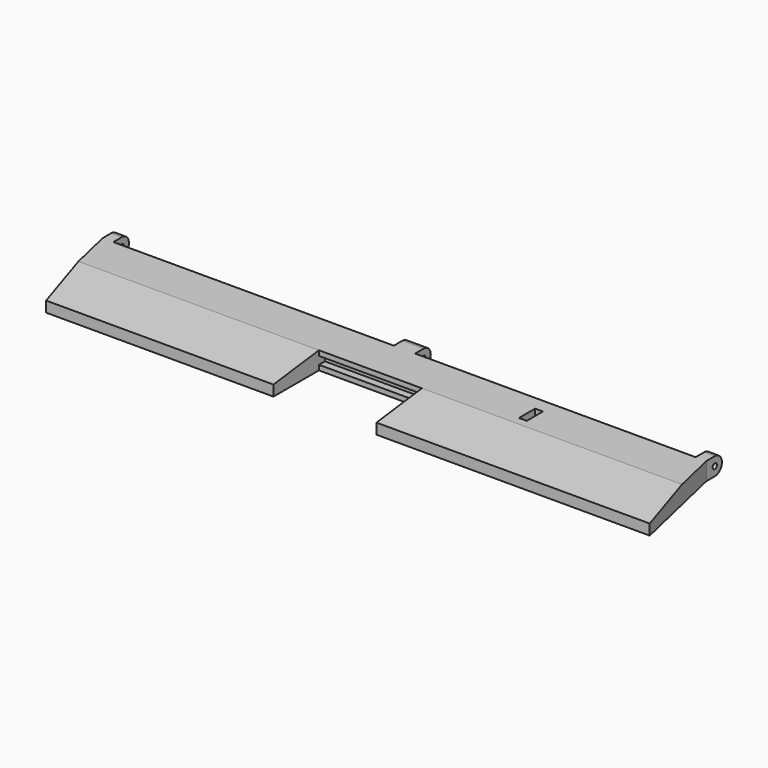
from build123d import *

# Parameters (mm, degrees)
PAD_DEPTH       = 5
SKETCH001_W     = 29
SKETCH001_H     = 16
POCKET_DEPTH    = 5
SKETCH002_W     = 29
SKETCH002_H     = 2.2
POCKET001_DEPTH = 2.1
POCKET002_DEPTH = 100
POCKET003_DEPTH = 100
SKETCH006_W     = 3
SKETCH006_H     = 5
SKETCH006_W_2   = 6
PAD001_DEPTH    = 5.5
SKETCH008_W     = 2.2
SKETCH008_H     = 5.7
POCKET005_DEPTH = 5
SKETCH009_R     = 0.75
POCKET006_DEPTH = 200
FILLET_R        = 2.49


with BuildPart() as part:
    # Sketch → Pad (new body)
    with BuildSketch(Plane.XY):
        Polygon((-85, 14), (85, 14), (91.464309, -14), (-78.535691, -14), align=None)
    extrude(amount=PAD_DEPTH)

    # Sketch001 (on Face6 of Pad) → Pocket (cut)
    with BuildSketch(Plane.XY.offset(5)):
        with Locations((0, -6)):
            Rectangle(SKETCH001_W, SKETCH001_H)
    extrude(amount=-POCKET_DEPTH, mode=Mode.SUBTRACT)

    # Sketch002 (on Face9 of Pocket) → Pocket001 (cut)
    with BuildSketch(Plane.XZ.offset(-2)):
        with Locations((0, 2.5)):
            Rectangle(SKETCH002_W, SKETCH002_H)
    extrude(amount=-POCKET001_DEPTH, mode=Mode.SUBTRACT)

    # Sketch004 (on Face8 of Pocket001) → Pocket002 (cut)
    with BuildSketch(Plane.YZ.offset(-14.5)):
        Polygon((-14, 5), (2, 5), (-14, 3), align=None)
    extrude(amount=-POCKET002_DEPTH, mode=Mode.SUBTRACT)

    # Sketch005 (on Face11 of Pocket002) → Pocket003 (cut)
    with BuildSketch(Plane(origin=(14.5, 0, 0), x_dir=(0, -1, 0), z_dir=(-1, 0, 0))):
        Polygon((-2, 5), (14, 5), (14, 3), align=None)
    extrude(amount=-POCKET003_DEPTH, mode=Mode.SUBTRACT)

    # Sketch006 (on Face1 of Pocket003) → Pad001 (join)
    with BuildSketch(Plane(origin=(0, 14, 0), x_dir=(-1, 0, 0), z_dir=(0, 1, 0))):
        with Locations((83.5, 2.5)):
            Rectangle(SKETCH006_W, SKETCH006_H)
        with Locations((-83.5, 2.5)):
            Rectangle(SKETCH006_W, SKETCH006_H)
        with Locations((0, 2.5)):
            Rectangle(SKETCH006_W_2, SKETCH006_H)
    extrude(amount=PAD001_DEPTH)

    # Sketch008 (on Face5 of Pocket001) → Pocket005 (cut)
    with BuildSketch(Plane.XY.offset(5)):
        with Locations((41.1, 7.15)):
            Rectangle(SKETCH008_W, SKETCH008_H)
    extrude(amount=-POCKET005_DEPTH, mode=Mode.SUBTRACT)

    # Sketch009 (on Face35 of Pocket005) → Pocket006 (cut)
    with BuildSketch(Plane.YZ.offset(85)):
        with Locations((17, 2.5)):
            Circle(SKETCH009_R)
    extrude(amount=-POCKET006_DEPTH, mode=Mode.SUBTRACT)

    # Fillet
    fillet_edges = [part.edges().sort_by_distance(p)[0] for p in [
        (83.5, 19.5, 0),
        (83.5, 19.5, 5),
        (0, 19.5, 0),
        (0, 19.5, 5),
        (-83.5, 19.5, 0),
        (-83.5, 19.5, 5),
    ]]
    fillet(fillet_edges, radius=FILLET_R)


solid = part.part
